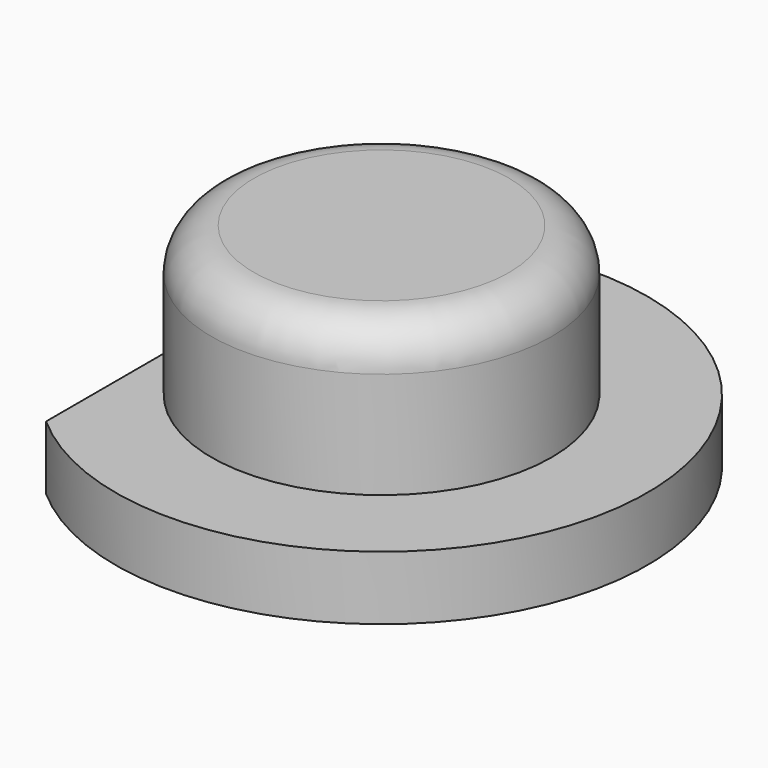
from build123d import *

# Parameters (mm, degrees)
BOX115_W          = 10
BOX115_H          = 10
BOX115_DEPTH      = 10
CYLINDER017_R     = 4
CYLINDER017_DEPTH = 5
FILLET002_R       = 1
CYLINDER016_R     = 6.25
CYLINDER016_DEPTH = 1.5


with BuildPart() as cube105:
    # Box115 → Box115 (new body)
    with BuildSketch(Plane(origin=(77.4, 9, 0), x_dir=(1, 0, 0), z_dir=(0, 0, 1))):
        with Locations((5, 5)):
            Rectangle(BOX115_W, BOX115_H)
    extrude(amount=BOX115_DEPTH)


with BuildPart() as obj1:
    # Cylinder017 → Cylinder017 (new body)
    with BuildSketch(Plane(origin=(109.54, 14, 6.3), x_dir=(1, 0, 0), z_dir=(0, 0, 1))):
        Circle(CYLINDER017_R)
    extrude(amount=CYLINDER017_DEPTH)

    # Fillet002
    fillet002_edges = [obj1.edges().sort_by_distance(p)[0] for p in [
        (105.54, 14, 11.3),
    ]]
    fillet(fillet002_edges, radius=FILLET002_R)


with BuildPart() as cut071:
    # Cylinder016 → Cylinder016 (new body)
    with BuildSketch(Plane(origin=(109.54, 14, 6.3), x_dir=(1, 0, 0), z_dir=(0, 0, 1))):
        Circle(CYLINDER016_R)
    extrude(amount=CYLINDER016_DEPTH)

    # Fusion016: union obj1
    add(obj1.part)


with BuildPart() as cut071_1:
    # Fusion016 placement: moved
    add(cut071.part.moved(Location((-18, 0, 0))))

    # Cut071: cut Cube105
    add(cube105.part, mode=Mode.SUBTRACT)


solid = cut071_1.part
